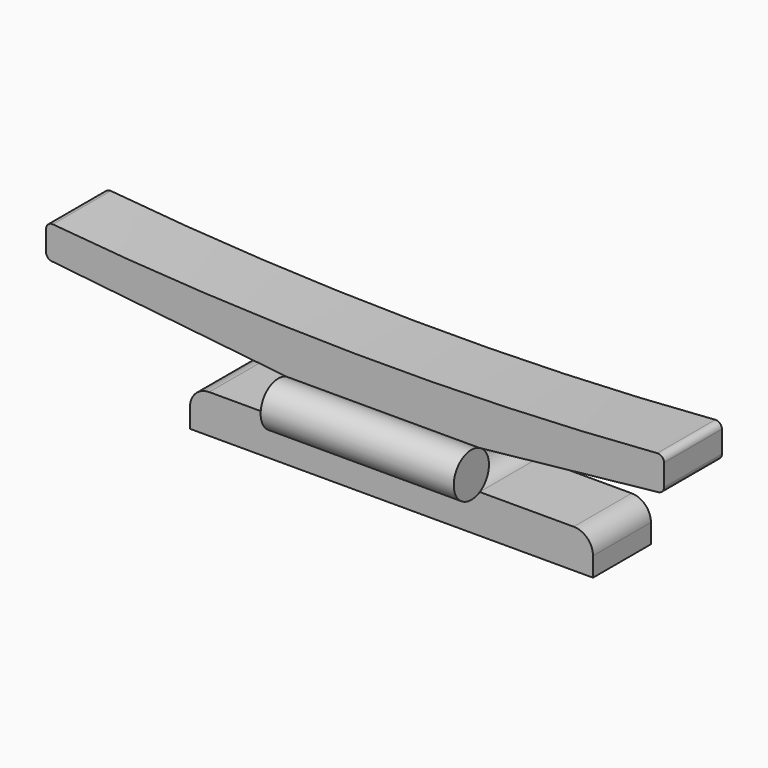
from build123d import *

# Parameters (mm, degrees)
F1_DEPTH = 23.8125
F2_R     = 7.251035
F3_DEPTH = 31.496
F4_DEPTH = 31.75


with BuildPart() as f1:
    # F0 (on Front) → F1 (new body)
    with BuildSketch(Plane.XZ):
        with BuildLine():
            Line((-63.5, -4.98963), (-63.5, -11.33963))
            Line((-63.5, -11.33963), (0, -11.33963))
            Line((0, -11.33963), (69.038319, -11.33963))
            Line((69.038319, -11.33963), (69.038319, -4.98963))
            ThreePointArc((69.038319, -4.98963), (67.178447, -0.499502), (62.688319, 1.36037))
            Line((62.688319, 1.36037), (31.75, 1.36037))
            ThreePointArc((31.75, 1.36037), (25.409083, 7.37086), (31.071951, 14.024066))
            Line((31.071951, 14.024066), (90.570115, 20.413778))
            ThreePointArc((90.570115, 20.413778), (91.864747, 21.076197), (92.385139, 22.434161))
            Line((92.385139, 22.434161), (92.385139, 29.566896))
            ThreePointArc((92.385139, 29.566896), (91.732126, 31.05935), (90.192796, 31.59256))
            ThreePointArc((90.192796, 31.59256), (-9.233486, 28.065795), (-108.589812, 33.198436))
            ThreePointArc((-108.589812, 33.198436), (-110.149746, 32.679172), (-110.814861, 31.175627))
            Line((-110.814861, 31.175627), (-110.814861, 24.413392))
            ThreePointArc((-110.814861, 24.413392), (-110.294469, 23.055428), (-108.999837, 22.393009))
            Line((-108.999837, 22.393009), (-31.071951, 14.024066))
            ThreePointArc((-31.071951, 14.024066), (-25.409083, 7.37086), (-31.75, 1.36037))
            Line((-31.75, 1.36037), (-57.15, 1.36037))
            ThreePointArc((-57.15, 1.36037), (-61.640128, -0.499502), (-63.5, -4.98963))
        make_face()
    extrude(amount=F1_DEPTH)

    # F2 (on Right) → F3 (join, symmetric)
    with BuildSketch(Plane.YZ):
        with Locations((3.39075, 7.690888)):
            Circle(F2_R)
    extrude(amount=F3_DEPTH, both=True)

    # F2 (on Right) → F4 (join, symmetric)
    with BuildSketch(Plane.YZ):
        with Locations((-27.20325, 7.690888)):
            Circle(F2_R)
    extrude(amount=F4_DEPTH, both=True)


solid = f1.part
